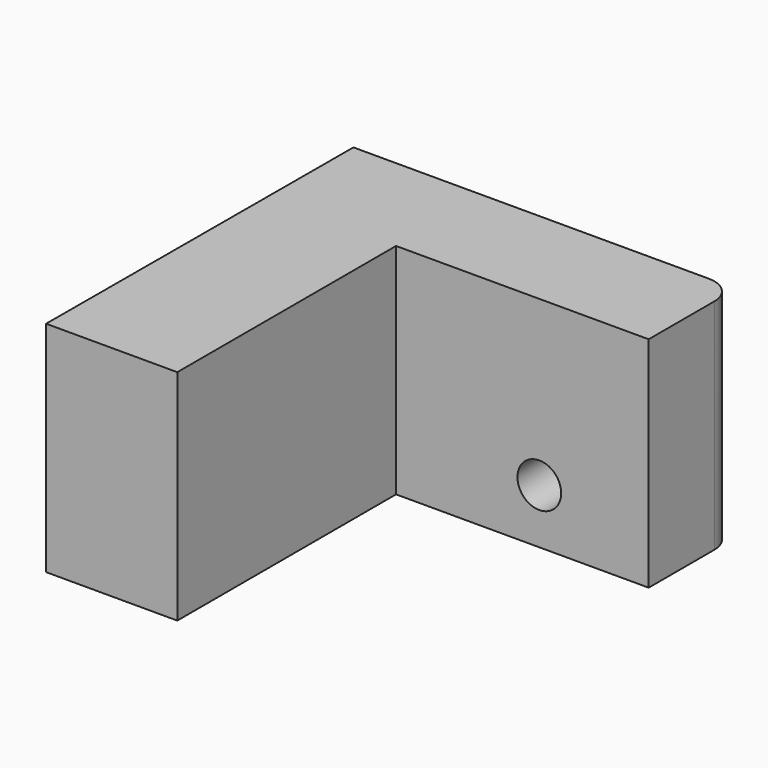
from build123d import *

# Parameters (mm, degrees)
F1_DEPTH       = 20
F3_D           = 4
F3_CSINK_D     = 6
F3_CSINK_ANGLE = 90
F4_R           = 2.5


with BuildPart() as f1:
    # F0 (on Top) → F1 (new body)
    with BuildSketch(Plane.XY):
        Polygon((-4.108734, 30.537107), (-4.213165, -4.462893), (7.786835, -4.462893), (7.786835, 20.537107), (30.891266, 20.537107), (30.891266, 30.537107), align=None)
    extrude(amount=F1_DEPTH)

    # F3 (through all)
    with Locations(Plane(origin=(0, 30.537107, 0), x_dir=(-1, 0, 0), z_dir=(0, 1, 0))):
        with Locations((-20.891266, 5)):
            CounterSinkHole(F3_D / 2, F3_CSINK_D / 2, counter_sink_angle=F3_CSINK_ANGLE)

    # F4
    f4_edges = [f1.edges().sort_by_distance(p)[0] for p in [
        (30.891266, 30.537107, 10),
    ]]
    fillet(f4_edges, radius=F4_R)


solid = f1.part
